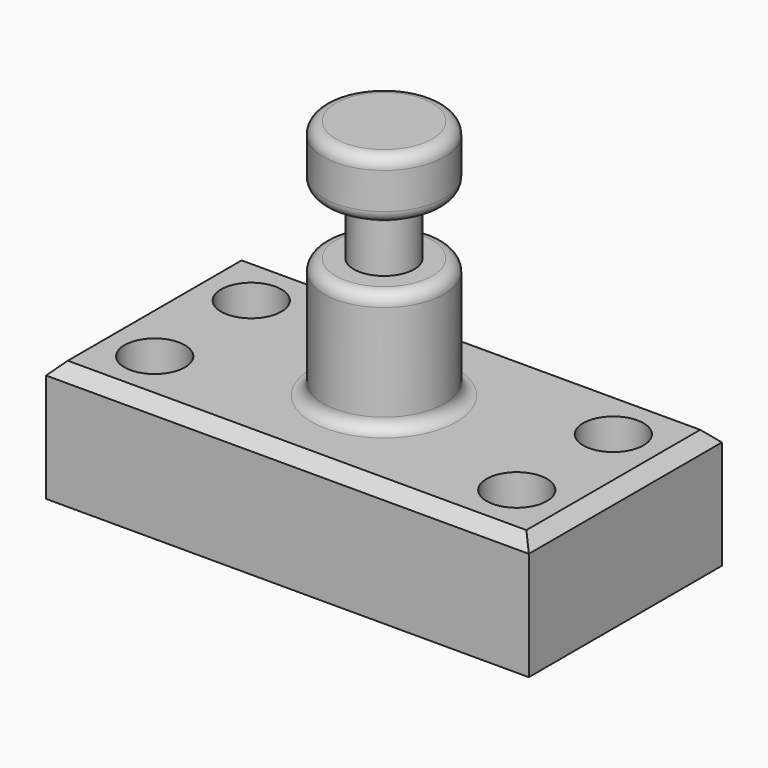
from build123d import *

# Parameters (mm, degrees)
F0_W     = 101.6
F0_H     = 50.8
F1_DEPTH = 25.4
F2_R     = 6.35
F3_DEPTH = 25.401
F4_W     = 12.7
F4_H     = 50.8
F6_W     = 11.6320042121
F6_H     = 12.7
F8_R     = 2.54
F9_SIZE  = 2.54


with BuildPart() as f1:
    # F0 (on Top) → F1 (new body)
    with BuildSketch(Plane.XY):
        Rectangle(F0_W, F0_H)
    extrude(amount=F1_DEPTH)

    # F2 (on face) → F3 (cut, through all)
    with BuildSketch(Plane.XY.offset(25.4)):
        with Locations((-38.1, 12.7)):
            Circle(F2_R)
        with Locations((-38.1, -12.7)):
            Circle(F2_R)
        with Locations((38.1, -12.7)):
            Circle(F2_R)
        with Locations((38.1, 12.7)):
            Circle(F2_R)
    extrude(amount=-F3_DEPTH, mode=Mode.SUBTRACT)

    # F4 (on Front) → F5 (revolve)
    with BuildSketch(Plane.XZ):
        with Locations((-6.35, 50.8)):
            Rectangle(F4_W, F4_H)
    revolve(axis=Axis((0, 0, 50.8), (0, 0, 1)))

    # F6 (on Front) → F7 (revolve, cut)
    with BuildSketch(Plane.XZ):
        with Locations((12.166002106, 57.15)):
            Rectangle(F6_W, F6_H)
    revolve(axis=Axis((0, 0, 43.5032770038), (0, 0, 1)), mode=Mode.SUBTRACT)

    # F8
    f8_edges = [f1.edges().sort_by_distance(p)[0] for p in [
        (12.7, 0, 50.8),
        (-6.35, 0, 63.5),
        (12.7, 0, 63.5),
        (12.7, 0, 25.4),
        (12.7, 0, 76.2),
    ]]
    fillet(f8_edges, radius=F8_R)

    # F9
    f9_edges = [f1.edges().sort_by_distance(p)[0] for p in [
        (0, -25.4, 25.4),
        (-50.8, 0, 25.4),
        (0, 25.4, 25.4),
        (50.8, 0, 25.4),
    ]]
    chamfer(f9_edges, length=F9_SIZE)


solid = f1.part
